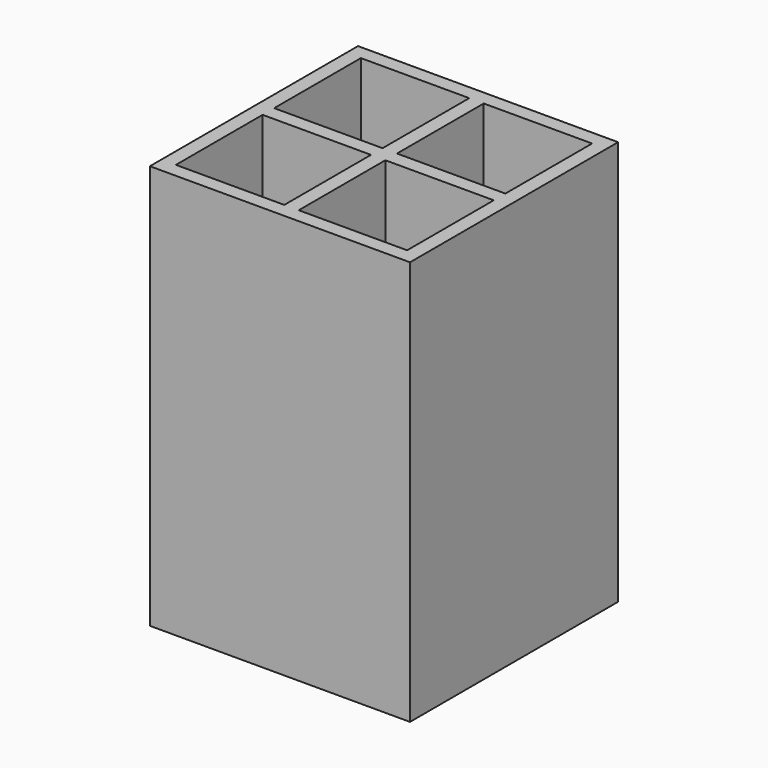
from build123d import *

# Parameters (mm, degrees)
F0_W     = 57.15
F0_H     = 57.15
F1_DEPTH = 88.9
F2_W     = 23.8125
F2_H     = 23.8125
F2_H_2   = 23.7871
F3_DEPTH = 85.725


with BuildPart() as f1:
    # F0 (on Top) → F1 (new body)
    with BuildSketch(Plane.XY):
        Rectangle(F0_W, F0_H)
    extrude(amount=F1_DEPTH)

    # F2 (on face) → F3 (cut)
    with BuildSketch(Plane.XY.offset(88.9)):
        with Locations((-13.49375, 13.49375)):
            Rectangle(F2_W, F2_H)
        with Locations((13.49375, 13.49375)):
            Rectangle(F2_W, F2_H)
        with Locations((13.49375, -13.50645)):
            Rectangle(F2_W, F2_H_2)
        with Locations((-13.49375, -13.49375)):
            Rectangle(F2_W, F2_H)
    extrude(amount=-F3_DEPTH, mode=Mode.SUBTRACT)


solid = f1.part
